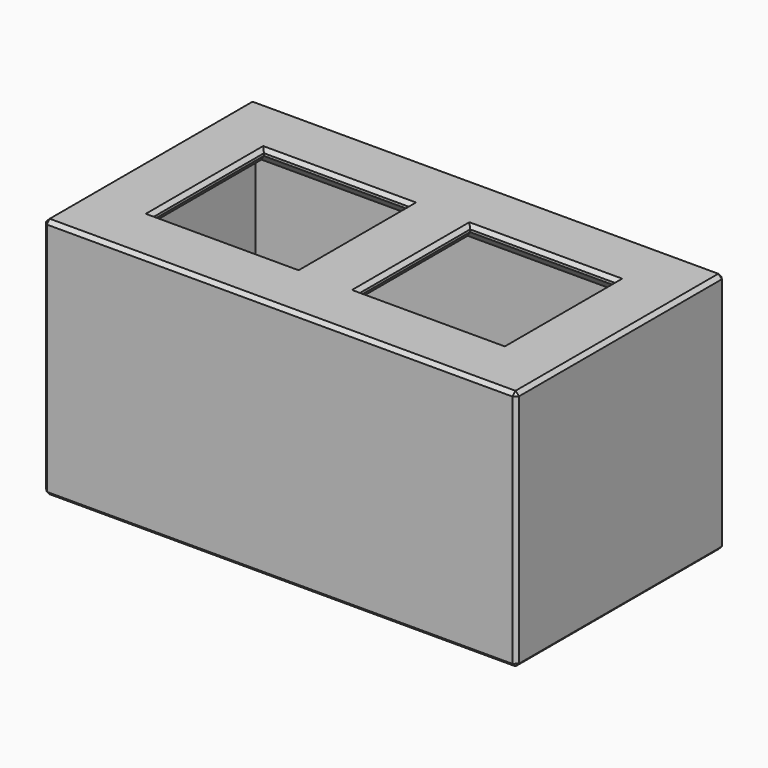
from build123d import *

# Parameters (mm, degrees)
SKETCH001_W     = 78
SKETCH001_H     = 43
PAD009_DEPTH    = 40
THICKNESS_T     = -3
SKETCH008_W     = 24
SKETCH008_H     = 23
POCKET_DEPTH    = 40.001
CHAMFER009_SIZE = 2
CHAMFER010_SIZE = 0.6


with BuildPart() as part:
    # Sketch001 → Pad009 (new body)
    with BuildSketch(Plane.XY):
        Rectangle(SKETCH001_W, SKETCH001_H)
    extrude(amount=PAD009_DEPTH)

    # Thickness
    thickness_openings = [part.faces().sort_by_distance(p)[0] for p in [
        (0, 0, 0),
    ]]
    offset(amount=THICKNESS_T, openings=thickness_openings)

    # Sketch008 → Pocket (cut, through all)
    with BuildSketch(Plane.XY):
        with Locations((-17, 0)):
            Rectangle(SKETCH008_W, SKETCH008_H)
        with Locations((17, 0)):
            Rectangle(SKETCH008_W, SKETCH008_H)
    extrude(amount=POCKET_DEPTH, mode=Mode.SUBTRACT)

    # Chamfer009
    chamfer009_edges = [part.edges().sort_by_distance(p)[0] for p in [
        (-5, 0, 37),
        (-17, -11.5, 37),
        (-29, 0, 37),
        (17, -11.5, 37),
        (5, 0, 37),
        (29, 0, 37),
        (-17, 11.5, 37),
        (17, 11.5, 37),
    ]]
    chamfer(chamfer009_edges, length=CHAMFER009_SIZE)

    # Chamfer010
    chamfer010_edges = [part.edges().sort_by_distance(p)[0] for p in [
        (-39, 0, 0),
        (0, -21.5, 0),
        (39, 0, 0),
        (0, 21.5, 0),
        (-36, 0, 0),
        (0, 18.5, 0),
        (36, 0, 0),
        (0, -18.5, 0),
        (-39, 0, 40),
        (0, 21.5, 40),
        (0, -21.5, 40),
        (39, 0, 40),
        (17, -11.5, 40),
        (29, 0, 40),
        (17, 11.5, 40),
        (5, 0, 40),
        (-17, -11.5, 40),
        (-5, 0, 40),
        (-17, 11.5, 40),
        (-29, 0, 40),
        (39, 21.5, 20),
        (-39, 21.5, 20),
        (-39, -21.5, 20),
        (39, -21.5, 20),
    ]]
    chamfer(chamfer010_edges, length=CHAMFER010_SIZE)


solid = part.part
